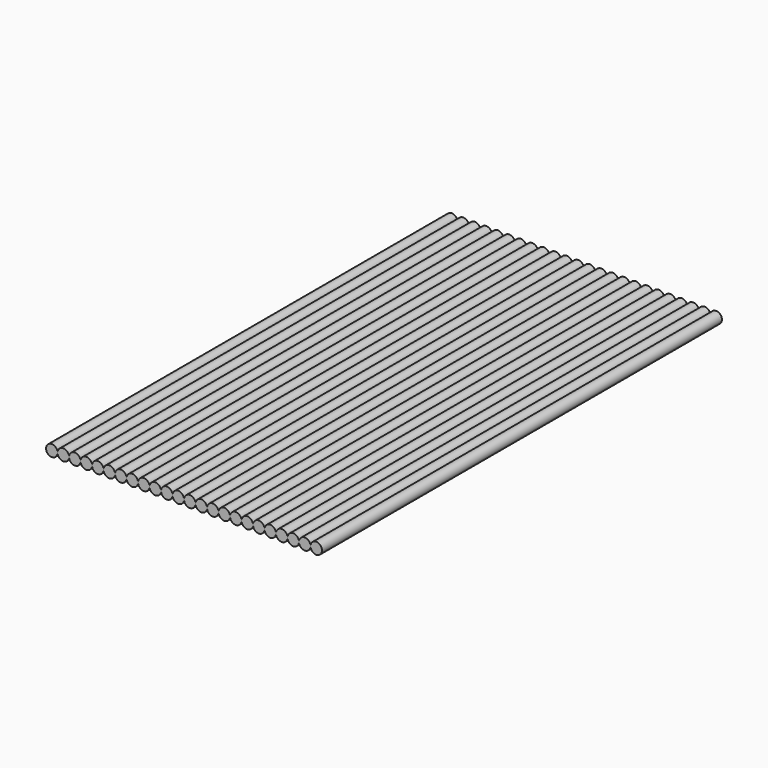
from build123d import *

# Parameters (mm, degrees)
F0_R     = 2.921
F1_DEPTH = 254


with BuildPart() as f1:
    # F0 (on Front) → F1 (new body)
    with BuildSketch(Plane.XZ):
        with Locations((-64.262, 0)):
            Circle(F0_R)
        with BuildLine():
            ThreePointArc((-61.341, 0), (-58.42, -2.921), (-55.499, 0))
            ThreePointArc((-55.499, 0), (-58.42, 2.921), (-61.341, 0))
        make_face()
        with BuildLine():
            ThreePointArc((-55.499, 0), (-52.578, -2.921), (-49.657, 0))
            ThreePointArc((-49.657, 0), (-52.578, 2.921), (-55.499, 0))
        make_face()
        with BuildLine():
            ThreePointArc((-49.657, 0), (-46.736, -2.921), (-43.815, 0))
            ThreePointArc((-43.815, 0), (-46.736, 2.921), (-49.657, 0))
        make_face()
        with BuildLine():
            ThreePointArc((-43.815, 0), (-40.894, -2.921), (-37.973, 0))
            ThreePointArc((-37.973, 0), (-40.894, 2.921), (-43.815, 0))
        make_face()
        with BuildLine():
            ThreePointArc((-37.973, 0), (-35.052, -2.921), (-32.131, 0))
            ThreePointArc((-32.131, 0), (-35.052, 2.921), (-37.973, 0))
        make_face()
        with BuildLine():
            ThreePointArc((-32.131, 0), (-29.21, -2.921), (-26.289, 0))
            ThreePointArc((-26.289, 0), (-29.21, 2.921), (-32.131, 0))
        make_face()
        with BuildLine():
            ThreePointArc((-26.289, 0), (-23.368, -2.921), (-20.447, 0))
            ThreePointArc((-20.447, 0), (-23.368, 2.921), (-26.289, 0))
        make_face()
        with BuildLine():
            ThreePointArc((-20.447, 0), (-17.526, -2.921), (-14.605, 0))
            ThreePointArc((-14.605, 0), (-17.526, 2.921), (-20.447, 0))
        make_face()
        with BuildLine():
            ThreePointArc((-14.605, 0), (-11.684, -2.921), (-8.763, 0))
            ThreePointArc((-8.763, 0), (-11.684, 2.921), (-14.605, 0))
        make_face()
        with BuildLine():
            ThreePointArc((-8.763, 0), (-5.842, -2.921), (-2.921, 0))
            ThreePointArc((-2.921, 0), (-5.842, 2.921), (-8.763, 0))
        make_face()
        with BuildLine():
            ThreePointArc((-2.921, 0), (0, -2.921), (2.921, 0))
            ThreePointArc((2.921, 0), (0, 2.921), (-2.921, 0))
        make_face()
        with BuildLine():
            ThreePointArc((8.763, 0), (5.842, 2.921), (2.921, 0))
            ThreePointArc((2.921, 0), (5.842, -2.921), (8.763, 0))
        make_face()
        with BuildLine():
            ThreePointArc((14.605, 0), (11.684, 2.921), (8.763, 0))
            ThreePointArc((8.763, 0), (11.684, -2.921), (14.605, 0))
        make_face()
        with BuildLine():
            ThreePointArc((20.447, 0), (17.526, 2.921), (14.605, 0))
            ThreePointArc((14.605, 0), (17.526, -2.921), (20.447, 0))
        make_face()
        with BuildLine():
            ThreePointArc((26.289, 0), (23.368, 2.921), (20.447, 0))
            ThreePointArc((20.447, 0), (23.368, -2.921), (26.289, 0))
        make_face()
        with BuildLine():
            ThreePointArc((32.131, 0), (29.21, 2.921), (26.289, 0))
            ThreePointArc((26.289, 0), (29.21, -2.921), (32.131, 0))
        make_face()
        with BuildLine():
            ThreePointArc((37.973, 0), (35.052, 2.921), (32.131, 0))
            ThreePointArc((32.131, 0), (35.052, -2.921), (37.973, 0))
        make_face()
        with BuildLine():
            ThreePointArc((43.815, 0), (40.894, 2.921), (37.973, 0))
            ThreePointArc((37.973, 0), (40.894, -2.921), (43.815, 0))
        make_face()
        with BuildLine():
            ThreePointArc((49.657, 0), (46.736, 2.921), (43.815, 0))
            ThreePointArc((43.815, 0), (46.736, -2.921), (49.657, 0))
        make_face()
        with BuildLine():
            ThreePointArc((55.499, 0), (52.578, 2.921), (49.657, 0))
            ThreePointArc((49.657, 0), (52.578, -2.921), (55.499, 0))
        make_face()
        with BuildLine():
            ThreePointArc((61.341, 0), (58.42, 2.921), (55.499, 0))
            ThreePointArc((55.499, 0), (58.42, -2.921), (61.341, 0))
        make_face()
        with BuildLine():
            ThreePointArc((67.183, 0), (64.262, 2.921), (61.341, 0))
            ThreePointArc((61.341, 0), (64.262, -2.921), (67.183, 0))
        make_face()
        with BuildLine():
            ThreePointArc((73.025, 0), (70.104, 2.921), (67.183, 0))
            ThreePointArc((67.183, 0), (70.104, -2.921), (73.025, 0))
        make_face()
    extrude(amount=F1_DEPTH)


solid = f1.part
